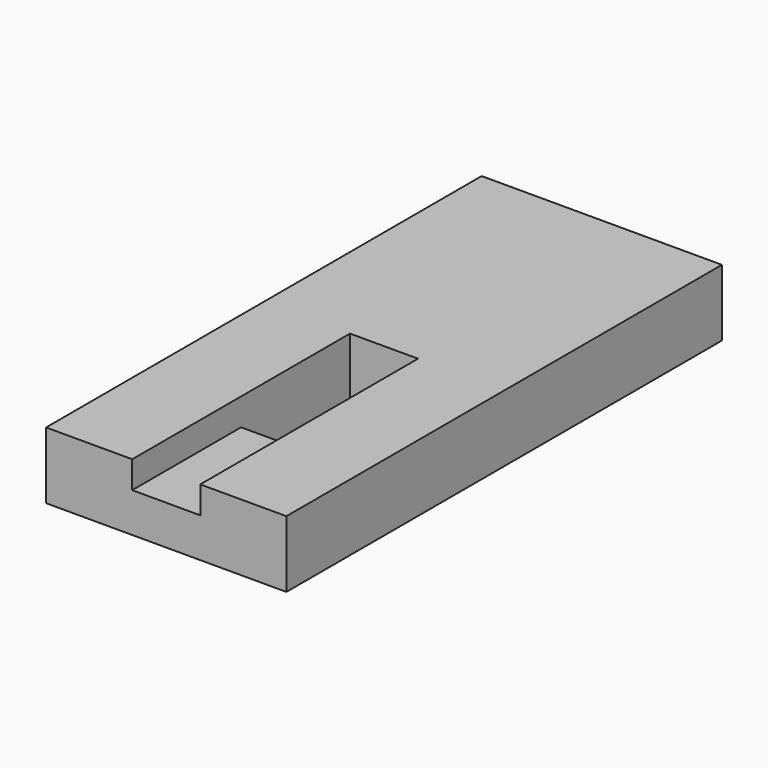
from build123d import *

# Parameters (mm, degrees)
F1_DEPTH = 6.223
F0_W     = 6.35
F0_H     = 12.7
F2_DEPTH = 3.683


with BuildPart() as f1:
    # F0 (on Top) → F1 (new body)
    with BuildSketch(Plane.XY):
        Polygon((3.175, -25.4), (11.211917, -25.4), (11.211917, 25.4), (-11.211917, 25.4), (-11.211917, -25.4), (-3.175, -25.4), (-3.175, -12.7), (-3.175, 0), (3.175, 0), (3.175, -12.7), align=None)
    extrude(amount=F1_DEPTH)

    # F0 (on Top) → F2 (join)
    with BuildSketch(Plane.XY):
        with Locations((0, -19.05)):
            Rectangle(F0_W, F0_H)
    extrude(amount=F2_DEPTH)


solid = f1.part
